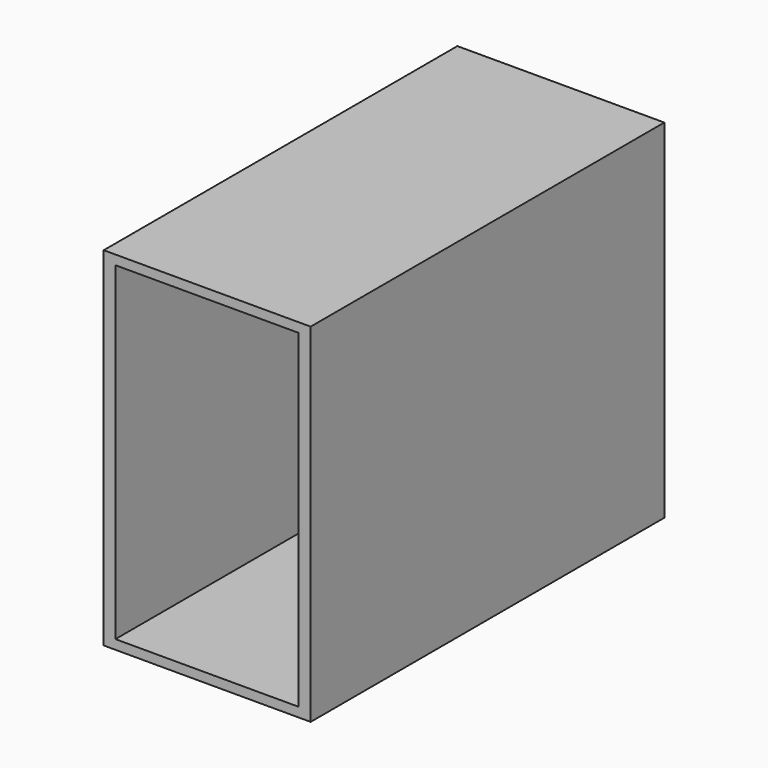
from build123d import *

# Parameters (mm, degrees)
F1_DEPTH = 447.675


with BuildPart() as f1:
    # F0 (on Front) → F1 (new body, symmetric)
    with BuildSketch(Plane.XZ):
        Polygon((209.55, -9.525), (209.55, 9.525), (-209.55, 9.525), (-209.55, -9.525), (-185.8470886946, -9.525), (185.2706223726, -9.525), align=None)
        Polygon((209.55, -676.275), (209.55, -9.525), (185.2706223726, -9.525), (185.2706223726, -644.525), (185.2706223726, -676.275), align=None)
        Polygon((-185.8470886946, -9.525), (-209.55, -9.525), (-209.55, -676.275), (-185.8470886946, -676.275), (-185.8470886946, -644.525), align=None)
        Polygon((209.55, -695.325), (209.55, -676.275), (185.2706223726, -676.275), (-185.8470886946, -676.275), (-209.55, -676.275), (-209.55, -695.325), align=None)
    extrude(amount=F1_DEPTH, both=True)


solid = f1.part
